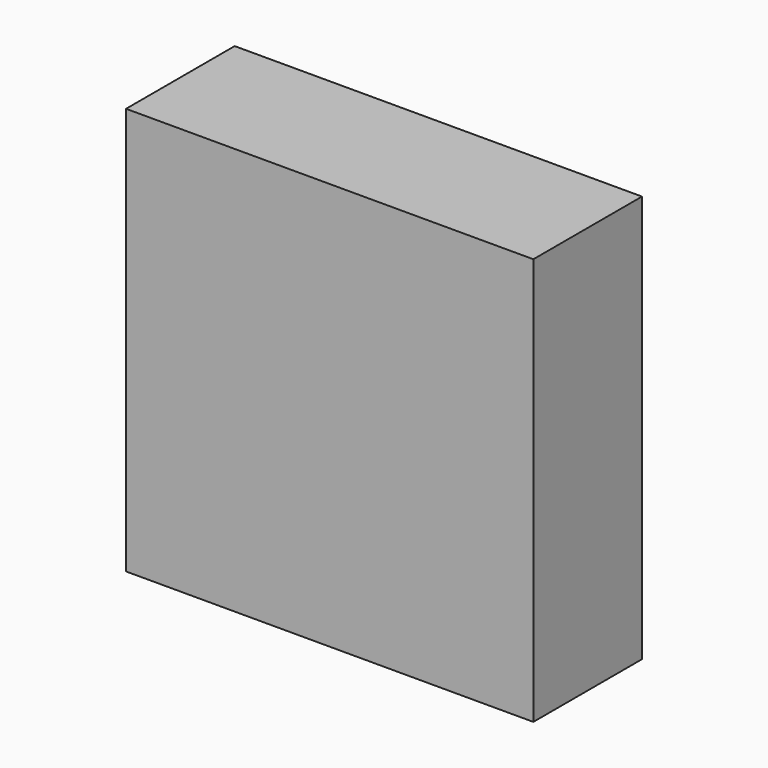
from build123d import *

# Parameters (mm, degrees)
F1_DEPTH = 25.4


with BuildPart() as f1:
    # F0 (on Front) → F1 (new body, symmetric)
    with BuildSketch(Plane.XZ):
        Polygon((-99.091996, 103.590035), (-99.091996, 27.390035), (-22.891996, 103.590035), align=None)
        Polygon((-99.091996, 27.390035), (-99.091996, -48.809965), (53.308004, -48.809965), (53.308004, 103.590035), (-22.891996, 103.590035), align=None)
    extrude(amount=F1_DEPTH, both=True)


solid = f1.part
